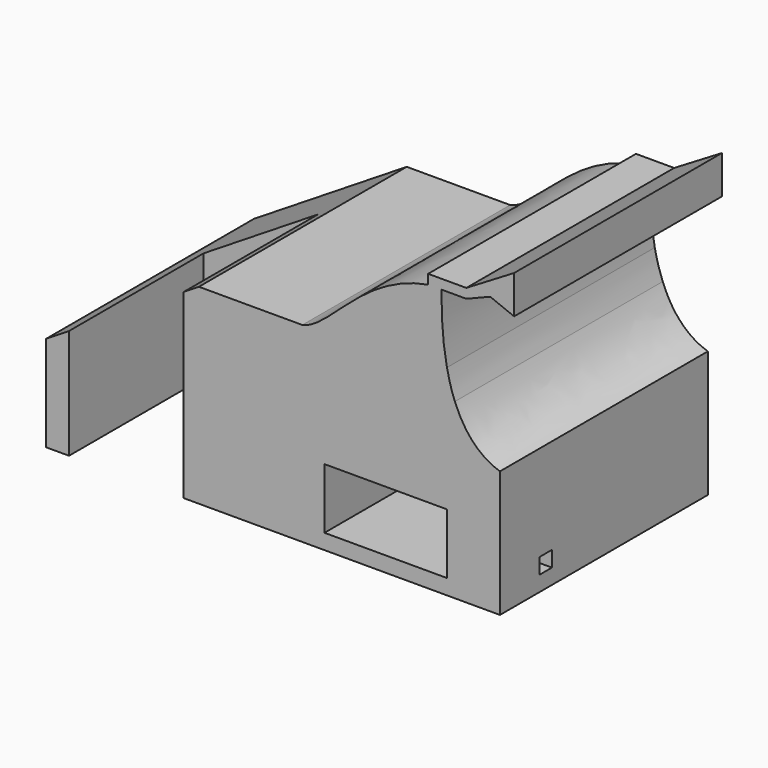
from build123d import *

# Parameters (mm, degrees)
F0_W      = 50.8
F0_H      = 86.36
F1_DEPTH  = 63.5
F2_W      = 20.32
F2_H      = 43.18
F2_W_2    = 17.78
F2_H_2    = 12.7
F3_DEPTH  = 228.6
F5_DEPTH  = 228.6
F6_W      = 86.36
F6_H      = 50.8
F6_H_2    = 63.5
F7_DEPTH  = 127
F9_W      = 127
F9_H      = 50.8
F10_DEPTH = 228.6
F12_DEPTH = 37.999924
F13_DEPTH = 86.36
F15_DEPTH = 101.6
F16_W     = 41.91
F16_H     = 22.225
F17_DEPTH = 228.6
F18_W     = 46.355
F18_H     = 86.36
F18_W_2   = 4.445
F19_DEPTH = 12.7
F20_W     = 12.7
F20_H     = 9.525
F20_W_2   = 3.175
F20_W_3   = 6.35
F20_H_2   = 3.175
F21_DEPTH = 228.6
F23_DEPTH = 228.6
F25_DEPTH = 59.69


with BuildPart() as f1:
    # F0 (on Top) → F1 (new body)
    with BuildSketch(Plane.XY):
        with Locations((0, 4.4812522829)):
            Rectangle(F0_W, F0_H)
    extrude(amount=F1_DEPTH)

    # F2 (on face) → F3 (cut)
    with BuildSketch(Plane.XY.offset(63.5)):
        with Locations((10.16, -17.1087477171)):
            Rectangle(F2_W, F2_H)
        with Locations((-8.89, -17.1087477171)):
            Rectangle(F2_W_2, F2_H)
        with Locations((-8.89, 10.8312522829)):
            Rectangle(F2_W_2, F2_H_2)
        with Locations((10.16, 10.8312522829)):
            Rectangle(F2_W, F2_H_2)
    extrude(amount=-F3_DEPTH, mode=Mode.SUBTRACT)

    # F4 (on face) → F5 (cut)
    with BuildSketch(Plane(origin=(0, 47.6612522829, 0), x_dir=(-1, 0, 0), z_dir=(0, 1, 0))):
        Polygon((-25.4, 63.5), (25.4, 31.75), (25.4, 63.5), align=None)
    extrude(amount=-F5_DEPTH, mode=Mode.SUBTRACT)

    # F6 (on face) → F7 (join)
    with BuildSketch(Plane.YZ.offset(25.4)):
        with Locations((4.4812522829, 88.9)):
            Rectangle(F6_W, F6_H)
        with Locations((4.4812522829, 31.75)):
            Rectangle(F6_W, F6_H_2)
    extrude(amount=F7_DEPTH)

    # F9 (on face) → F10 (cut)
    with BuildSketch(Plane.XZ.offset(38.6987477171)):
        with Locations((88.9, 88.9)):
            Rectangle(F9_W, F9_H)
    extrude(amount=-F10_DEPTH, mode=Mode.SUBTRACT)

    # F11 (on face) → F12 (cut)
    with BuildSketch(Plane.XZ.offset(38.6987477171)):
        Polygon((107.95, 5.08), (107.95, 13.3552532643), (107.95, 25.18000044), (67.1500054, 25.18000044), (67.1500054, 5.08), align=None)
    extrude(amount=-F12_DEPTH, mode=Mode.SUBTRACT)

    # F8 (on face) → F13 (join)
    with BuildSketch(Plane.XZ.offset(38.6987477171)):
        with BuildLine():
            Line((59.7608433873, 63.5), (101.6, 63.5))
            Line((101.6, 63.5), (101.6, 88.9))
            add(Edge.make_bspline(
                [(101.6, 88.9), (79.3954620772, 84.9506698417), (69.3900678517, 65.6088911006), (59.7608433873, 63.5)],
                knots=[0, 0, 0, 0, 0.338800951, 0.338800951, 0.338800951, 0.338800951], degree=3))
        make_face()
        Polygon((101.6, 88.9), (101.6, 63.5), (152.4, 63.5), (152.4, 114.3), (101.6, 114.3), align=None)
    extrude(amount=-F13_DEPTH)

    # F14 (on face) → F15 (cut)
    with BuildSketch(Plane.YZ.offset(152.4)):
        Polygon((47.6612522829, 114.3), (-38.6987477171, 114.3), (-38.6987477171, 88.9), (47.6612522829, 88.9), (47.6612522829, 101.6), align=None)
    extrude(amount=-F15_DEPTH, mode=Mode.SUBTRACT)

    # F16 (on face) → F17 (cut)
    with BuildSketch(Plane.XZ.offset(38.6987477171)):
        with BuildLine():
            Line((110.49, 88.9), (106.045, 88.9))
            add(Edge.make_bspline(
                [(106.045, 88.9), (105.9615328839, 79.9996478615), (106.6244970849, 72.678646754), (107.8523208865, 66.675)],
                knots=[0, 0, 0, 0, 0.1081078186, 0.1081078186, 0.1081078186, 0.1081078186], degree=3))
            Line((107.8523208865, 66.675), (110.49, 66.675))
            Line((110.49, 66.675), (110.49, 88.9))
        make_face()
        with Locations((131.445, 77.7875)):
            Rectangle(F16_W, F16_H)
        with BuildLine():
            add(Edge.make_bspline(
                [(125.4735723701, 42.0280762193), (135.98584711, 38.6000255348), (147.7481796214, 43.4285940009), (152.4, 44.45)],
                knots=[0.3864894569, 0.3864894569, 0.3864894569, 0.3864894569, 0.7739727647, 0.7739727647, 0.7739727647, 0.7739727647], degree=3))
            Line((125.4735723701, 42.0280762193), (125.4735723701, 0))
            Line((125.4735723701, 0), (152.4, 0))
            Line((152.4, 0), (152.4, 44.45))
        make_face()
        with BuildLine():
            Line((152.4, 66.675), (110.49, 66.675))
            Line((110.49, 66.675), (110.49, 57.5908386536))
            add(Edge.make_bspline(
                [(110.49, 57.5908386536), (114.1247988782, 48.4297517152), (119.6043502669, 43.9420283702), (125.4735723701, 42.0280762193)],
                knots=[0.1701494495, 0.1701494495, 0.1701494495, 0.1701494495, 0.3864894569, 0.3864894569, 0.3864894569, 0.3864894569], degree=3))
            add(Edge.make_bspline(
                [(125.4735723701, 42.0280762193), (135.98584711, 38.6000255348), (147.7481796214, 43.4285940009), (152.4, 44.45)],
                knots=[0.3864894569, 0.3864894569, 0.3864894569, 0.3864894569, 0.7739727647, 0.7739727647, 0.7739727647, 0.7739727647], degree=3))
            Line((152.4, 44.45), (152.4, 66.675))
        make_face()
        with BuildLine():
            Line((110.49, 66.675), (107.8523208865, 66.675))
            add(Edge.make_bspline(
                [(107.8523208865, 66.675), (108.5569525417, 63.2295874383), (109.4476183656, 60.218040074), (110.49, 57.5908386536)],
                knots=[0.1081078186, 0.1081078186, 0.1081078186, 0.1081078186, 0.1701494495, 0.1701494495, 0.1701494495, 0.1701494495], degree=3))
            Line((110.49, 57.5908386536), (110.49, 66.675))
        make_face()
    extrude(amount=-F17_DEPTH, mode=Mode.SUBTRACT)

    # F18 (on face) → F19 (join)
    with BuildSketch(Plane.XY.offset(88.9)):
        with Locations((129.2225, 4.4812522829)):
            Rectangle(F18_W, F18_H)
        with Locations((103.8225, 4.4812522829)):
            Rectangle(F18_W_2, F18_H)
    extrude(amount=F19_DEPTH)

    # F20 (on face) → F21 (cut)
    with BuildSketch(Plane.XZ.offset(38.6987477171)):
        with Locations((107.95, 96.8375)):
            Rectangle(F20_W, F20_H)
        Polygon((127, 99.695), (127, 101.6), (114.3, 101.6), (114.3, 92.075), align=None)
        Polygon((127, 99.695), (130.175, 101.6), (127, 101.6), align=None)
        Polygon((127, 99.695), (130.175, 101.6), (127, 101.6), align=None)
        with Locations((131.7625, 96.8375)):
            Rectangle(F20_W_2, F20_H)
        Polygon((127, 99.695), (130.175, 101.6), (127, 101.6), align=None)
        with Locations((131.7625, 96.8375)):
            Rectangle(F20_W_2, F20_H)
        with Locations((136.525, 96.8375)):
            Rectangle(F20_W_3, F20_H)
        with Locations((131.7625, 90.4875)):
            Rectangle(F20_W_2, F20_H_2)
        with Locations((136.525, 90.4875)):
            Rectangle(F20_W_3, F20_H_2)
        Polygon((152.4, 95.25), (152.4, 101.6), (139.7, 101.6), (139.7, 92.075), (152.4, 92.075), align=None)
        with Locations((146.05, 90.4875)):
            Rectangle(F20_W, F20_H_2)
        Polygon((152.4, 95.25), (152.4, 101.6), (139.7, 101.6), (139.7, 92.075), (152.4, 92.075), align=None)
    extrude(amount=-F21_DEPTH, mode=Mode.SUBTRACT)

    # F22 (on face) → F23 (cut)
    with BuildSketch(Plane.XZ.offset(38.6987477171)):
        Polygon((122.2375, 92.075), (114.3, 88.9), (130.175, 88.9), align=None)
    extrude(amount=-F23_DEPTH, mode=Mode.SUBTRACT)

    # F24 (on face) → F25 (cut)
    with BuildSketch(Plane(origin=(107.95, 0, 0), x_dir=(0, -1, 0), z_dir=(-1, 0, 0))):
        Polygon((22.0737809671, 5.08), (22.2987805171, 5.08), (22.2987805171, 10.2799896), (17.0987909171, 10.2799896), (17.0987909171, 5.08), (17.3237904671, 5.08), (19.6987857171, 5.08), align=None)
    extrude(amount=-F25_DEPTH, mode=Mode.SUBTRACT)


solid = f1.part
